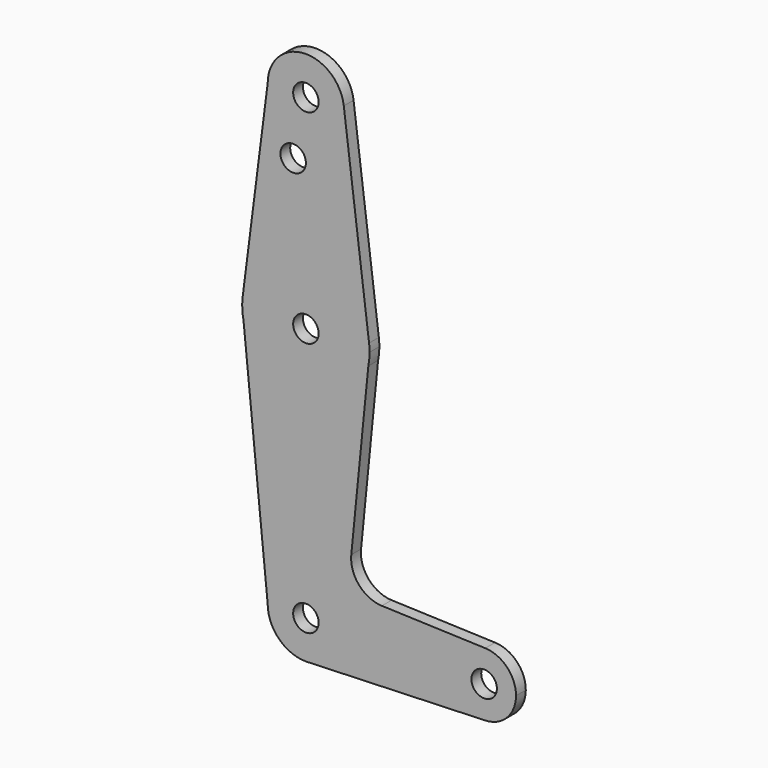
from build123d import *

# Parameters (mm, degrees)
F0_R     = 3.175
F1_DEPTH = 3.048


with BuildPart() as f1:
    # F0 (on Front) → F1 (new body)
    with BuildSketch(Plane.XZ):
        with BuildLine():
            ThreePointArc((0.6773435479, -9.500885786), (6.9705567315, -6.4912990883), (9.525, 0))
            ThreePointArc((9.525, 0), (0, 9.525), (-9.525, 0))
            ThreePointArc((-9.525, 0), (-6.7351920908, -6.7351920908), (0, -9.525))
            Line((0, -9.525), (0.6773435479, -9.500885786))
        make_face()
        Circle(F0_R, mode=Mode.SUBTRACT)
        with BuildLine():
            ThreePointArc((-9.525, 0), (0, 9.525), (9.525, 0))
            Line((9.525, 0), (36.5125, 0))
            ThreePointArc((36.5125, 0), (38.9380895153, 5.7116327839), (44.7324052746, 7.9324746146))
            Line((44.7324052746, 7.9324746146), (18.9454118634, 8.8505214169))
            ThreePointArc((18.9454118634, 8.8505214169), (13.2415005535, 11.5645997894), (11.3169489983, 17.5809879879))
            Line((11.3169489983, 17.5809879879), (15.5652161214, 60.3791552277))
            ThreePointArc((15.5652161214, 60.3791552277), (0.0115875772, 47.625004229), (-15.5606435644, 60.3564356436))
            Line((-15.5606435644, 60.3564356436), (-9.525, 0))
        make_face()
        with BuildLine():
            Line((36.5125, 0), (9.525, 0))
            ThreePointArc((9.525, 0), (6.9705567315, -6.4912990883), (0.6773435479, -9.500885786))
            Line((0.6773435479, -9.500885786), (44.7324052746, -7.9324746146))
            ThreePointArc((44.7324052746, -7.9324746146), (38.9380895153, -5.7116327839), (36.5125, 0))
        make_face()
        with BuildLine():
            ThreePointArc((44.7324052746, 7.9324746146), (38.9380895153, 5.7116327839), (36.5125, 0))
            ThreePointArc((36.5125, 0), (38.9380895153, -5.7116327839), (44.7324052746, -7.9324746146))
            ThreePointArc((44.7324052746, -7.9324746146), (50.1616327839, -5.5119104847), (52.3875, 0))
            ThreePointArc((52.3875, 0), (50.1616327839, 5.5119104847), (44.7324052746, 7.9324746146))
        make_face()
        with BuildLine():
            ThreePointArc((47.625, 0), (44.45, -3.175), (41.275, 0))
            ThreePointArc((41.275, 0), (44.45, 3.175), (47.625, 0))
        make_face(mode=Mode.SUBTRACT)
        with BuildLine():
            ThreePointArc((0, -9.525), (0.3388863295, -9.5189695375), (0.6773435479, -9.500885786))
            Line((0.6773435479, -9.500885786), (0, -9.525))
        make_face()
        with BuildLine():
            Line((-15.875, 63.5), (-15.5606435644, 60.3564356436))
            ThreePointArc((-15.5606435644, 60.3564356436), (0.0115875772, 47.625004229), (15.5652161214, 60.3791552277))
            Line((15.5652161214, 60.3791552277), (15.875, 63.5))
            ThreePointArc((15.875, 63.5), (15.8438414904, 64.4941387366), (15.7504882737, 65.484375))
            ThreePointArc((15.7504882737, 65.484375), (0.0120528461, 79.3749954245), (-15.7474569047, 65.5082893304))
            ThreePointArc((-15.7474569047, 65.5082893304), (-15.8430821396, 64.5061676396), (-15.875, 63.5))
        make_face()
        with Locations((0, 63.5)):
            Circle(F0_R, mode=Mode.SUBTRACT)
        with BuildLine():
            ThreePointArc((-15.875, 63.5), (-15.7962153946, 61.9203784605), (-15.5606435644, 60.3564356436))
            Line((-15.5606435644, 60.3564356436), (-15.875, 63.5))
        make_face()
        with BuildLine():
            Line((15.875, 63.5), (15.5652161214, 60.3791552277))
            ThreePointArc((15.5652161214, 60.3791552277), (15.7973641936, 61.9319089516), (15.875, 63.5))
        make_face()
        with BuildLine():
            Line((-9.525, 114.3), (-15.7474569047, 65.5082893304))
            ThreePointArc((-15.7474569047, 65.5082893304), (0.0120528461, 79.3749954245), (15.7504882737, 65.484375))
            Line((15.7504882737, 65.484375), (9.4502929642, 115.490625))
            ThreePointArc((9.4502929642, 115.490625), (9.5063048942, 114.896483242), (9.525, 114.3))
            ThreePointArc((9.525, 114.3), (0, 104.775), (-9.525, 114.3))
        make_face()
        with Locations((-3.175, 99.886942851)):
            Circle(F0_R, mode=Mode.SUBTRACT)
        with BuildLine():
            ThreePointArc((9.4502929642, 115.490625), (-0.596483242, 123.8063048942), (-9.525, 114.3))
            ThreePointArc((-9.525, 114.3), (0, 104.775), (9.525, 114.3))
            ThreePointArc((9.525, 114.3), (9.5063048942, 114.896483242), (9.4502929642, 115.490625))
        make_face()
        with Locations((0, 114.3)):
            Circle(F0_R, mode=Mode.SUBTRACT)
    extrude(amount=F1_DEPTH)


solid = f1.part
